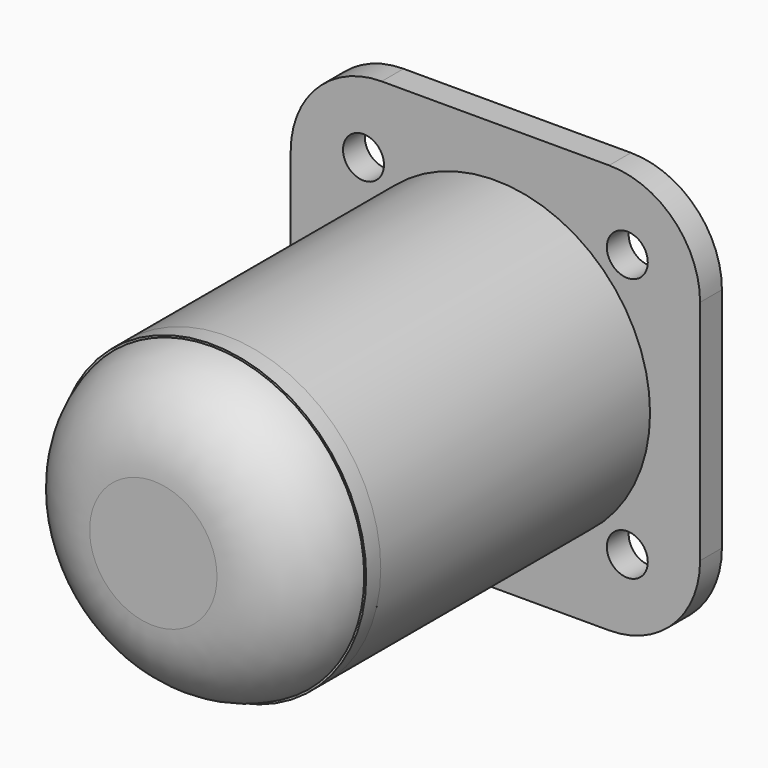
from build123d import *

# Parameters (mm, degrees)
F0_R     = 2.25
F0_R_2   = 17
F1_DEPTH = 3
F0_R_3   = 15
F0_R_4   = 1.75
F2_DEPTH = 50
F3_DEPTH = 36
F4_R     = 10
F5_R     = 17
F5_R_2   = 15
F5_R_3   = 1.75
F6_DEPTH = 2


with BuildPart() as f1:
    # F0 (on Front) → F1 (new body)
    with BuildSketch(Plane.XZ):
        with BuildLine():
            ThreePointArc((22.5, 12.5), (19.5710678119, 19.5710678119), (12.5, 22.5))
            Line((12.5, 22.5), (-12.5, 22.5))
            ThreePointArc((-12.5, 22.5), (-19.5710678119, 19.5710678119), (-22.5, 12.5))
            Line((-22.5, 12.5), (-22.5, -12.5))
            ThreePointArc((-22.5, -12.5), (-19.5710678119, -19.5710678119), (-12.5, -22.5))
            Line((-12.5, -22.5), (12.5, -22.5))
            ThreePointArc((12.5, -22.5), (19.5710678119, -19.5710678119), (22.5, -12.5))
            Line((22.5, -12.5), (22.5, 12.5))
        make_face()
        with Locations((-14.5, -14.5)):
            Circle(F0_R, mode=Mode.SUBTRACT)
        with Locations((14.5, -14.5)):
            Circle(F0_R, mode=Mode.SUBTRACT)
        with Locations((-14.5, 14.5)):
            Circle(F0_R, mode=Mode.SUBTRACT)
        Circle(F0_R_2, mode=Mode.SUBTRACT)
        with Locations((14.5, 14.5)):
            Circle(F0_R, mode=Mode.SUBTRACT)
    extrude(amount=F1_DEPTH)

    # F0 (on Front) → F2 (join)
    with BuildSketch(Plane.XZ):
        Circle(F0_R_2)
        Circle(F0_R_3, mode=Mode.SUBTRACT)
        Circle(F0_R_3)
        Circle(F0_R_4, mode=Mode.SUBTRACT)
        Circle(F0_R_4)
    extrude(amount=F2_DEPTH)

    # F0 (on Front) → F3 (cut)
    with BuildSketch(Plane.XZ):
        Circle(F0_R_3)
        Circle(F0_R_4, mode=Mode.SUBTRACT)
        Circle(F0_R_4)
    extrude(amount=F3_DEPTH, mode=Mode.SUBTRACT)

    # F4
    f4_edges = [f1.edges().sort_by_distance(p)[0] for p in [
        (-17, -50, 0),
    ]]
    fillet(f4_edges, radius=F4_R)


with BuildPart() as f6:
    # F5 (on Front) → F6 (new body)
    with BuildSketch(Plane.XZ):
        Circle(F5_R)
        Circle(F5_R_2, mode=Mode.SUBTRACT)
        Circle(F5_R_2)
        Circle(F5_R_3, mode=Mode.SUBTRACT)
        Circle(F5_R_3)
    extrude(amount=F6_DEPTH)


with BuildPart() as f6_1:
    # F7: moved
    add(f6.part.moved(Location((0, -40, 0))))


solid = Compound([f1.part, f6_1.part])
